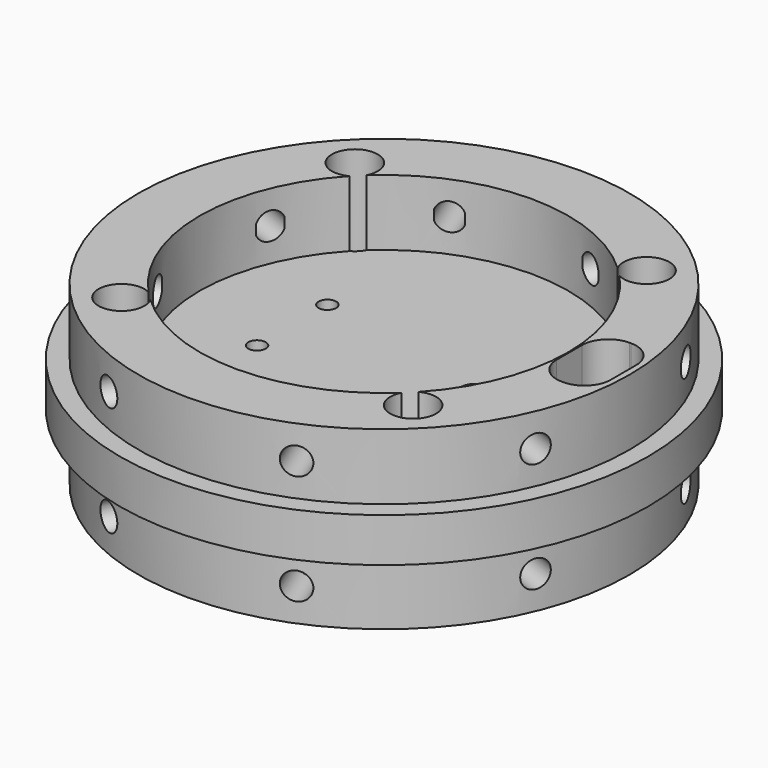
from build123d import *

# Parameters (mm, degrees)
SKETCH_R              = 27.9
PAD_DEPTH             = 7.5
SKETCH001_R           = 30
PAD001_DEPTH          = 5
SKETCH002_R           = 27.9
PAD002_DEPTH          = 7.5
SKETCH003_R           = 20.95
POCKET_DEPTH          = 7.5
SKETCH004_R           = 2.6
POCKET001_DEPTH       = 20.001
SKETCH005_W           = 6.15
SKETCH005_H           = 9.6
POCKET002_DEPTH       = 12.6
SKETCH006_R           = 1
SKETCH006_R_2         = 1.75
POCKET003_DEPTH       = 12.501
FILLET_R              = 3
SKETCH008_R           = 1.55
POCKET004_DEPTH       = 5
SKETCH009_R           = 1.55
POCKET005_DEPTH       = 5
POLARPATTERN_COUNT    = 4
SKETCH011_R           = 1.55
POCKET006_DEPTH       = 7
SKETCH012_R           = 1.55
POCKET007_DEPTH       = 7
POLARPATTERN001_COUNT = 4


with BuildPart() as part:
    # Sketch → Pad (new body)
    with BuildSketch(Plane.XY):
        Circle(SKETCH_R)
    extrude(amount=PAD_DEPTH)

    # Sketch001 (on Face3 of Pad) → Pad001 (join)
    with BuildSketch(Plane.XY.offset(7.5)):
        Circle(SKETCH001_R)
    extrude(amount=PAD001_DEPTH)

    # Sketch002 (on Face5 of Pad001) → Pad002 (join)
    with BuildSketch(Plane.XY.offset(12.5)):
        Circle(SKETCH002_R)
    extrude(amount=PAD002_DEPTH)

    # Sketch003 (on Face7 of Pad002) → Pocket (cut)
    with BuildSketch(Plane.XY.offset(20)):
        Circle(SKETCH003_R)
    extrude(amount=-POCKET_DEPTH, mode=Mode.SUBTRACT)

    # Sketch004 (on Face7 of Pocket) → Pocket001 (cut, through all)
    with BuildSketch(Plane.XY.offset(20)):
        with Locations((16.56603, 16.566024)):
            Circle(SKETCH004_R)
        with Locations((16.56603, -16.566024)):
            Circle(SKETCH004_R)
        with Locations((-16.56603, -16.566024)):
            Circle(SKETCH004_R)
        with Locations((-16.56603, 16.566024)):
            Circle(SKETCH004_R)
    extrude(amount=-POCKET001_DEPTH, mode=Mode.SUBTRACT)

    # Sketch005 (on Face9 of Pocket001) → Pocket002 (cut)
    with BuildSketch(Plane.XY.offset(20)):
        with Locations((24.125, 0)):
            Rectangle(SKETCH005_W, SKETCH005_H)
    extrude(amount=-POCKET002_DEPTH, mode=Mode.SUBTRACT)

    # Sketch006 → Pocket003 (cut, through all)
    with BuildSketch(Plane.XY.offset(12.5)):
        with Locations((24.375, 2.4)):
            Circle(SKETCH006_R)
        with Locations((24.375, -2.4)):
            Circle(SKETCH006_R)
        with Locations((10.425, 0)):
            Circle(SKETCH006_R_2)
        with Locations((-10.425, 5)):
            Circle(SKETCH006_R)
        with Locations((-10.425, -5)):
            Circle(SKETCH006_R)
    extrude(amount=-POCKET003_DEPTH, mode=Mode.SUBTRACT)

    # Fillet
    fillet_edges = [part.edges().sort_by_distance(p)[0] for p in [
        (21.05, 4.8, 13.7),
        (21.05, -4.8, 13.7),
        (27.2, -4.8, 13.7),
        (27.2, 4.8, 13.7),
    ]]
    fillet(fillet_edges, radius=FILLET_R)

    # Sketch008 (on DatumPlane) → Pocket004 (cut)
    with BuildSketch(Plane(origin=(10.676868, -25.776239, 0), x_dir=(-0.92388, -0.382683, 0), z_dir=(-0.382683, 0.92388, 0))):
        with Locations((0, 3.75)):
            Circle(SKETCH008_R)
    pocket004 = extrude(amount=POCKET004_DEPTH, mode=Mode.SUBTRACT)

    # Sketch009 (on DatumPlane) → Pocket005 (cut)
    with BuildSketch(Plane(origin=(25.776239, -10.676868, 0), x_dir=(-0.382683, -0.92388, 0), z_dir=(-0.92388, 0.382683, 0))):
        with Locations((0, 3.75)):
            Circle(SKETCH009_R)
    pocket005 = extrude(amount=POCKET005_DEPTH, mode=Mode.SUBTRACT)

    # PolarPattern: Pocket004, Pocket005 ×4 about axis
    polarpattern_axis = Axis((0, 0, 0), (0, 0, 1))
    for i in range(1, POLARPATTERN_COUNT):
        add(pocket004.rotate(polarpattern_axis, i * 360 / POLARPATTERN_COUNT), mode=Mode.SUBTRACT)
        add(pocket005.rotate(polarpattern_axis, i * 360 / POLARPATTERN_COUNT), mode=Mode.SUBTRACT)

    # Sketch011 (on DatumPlane) → Pocket006 (cut)
    with BuildSketch(Plane(origin=(10.676868, -25.776239, 20), x_dir=(-0.92388, -0.382683, 0), z_dir=(-0.382683, 0.92388, 0))):
        with Locations((0, -3.75)):
            Circle(SKETCH011_R)
    pocket006 = extrude(amount=POCKET006_DEPTH, mode=Mode.SUBTRACT)

    # Sketch012 (on DatumPlane) → Pocket007 (cut)
    with BuildSketch(Plane(origin=(25.776239, -10.676868, 20), x_dir=(-0.382683, -0.92388, 0), z_dir=(-0.92388, 0.382683, 0))):
        with Locations((0, -3.75)):
            Circle(SKETCH012_R)
    pocket007 = extrude(amount=POCKET007_DEPTH, mode=Mode.SUBTRACT)

    # PolarPattern001: Pocket007, Pocket006 ×4 about axis
    polarpattern001_axis = Axis((0, 0, 0), (0, 0, 1))
    for i in range(1, POLARPATTERN001_COUNT):
        add(pocket007.rotate(polarpattern001_axis, i * 360 / POLARPATTERN001_COUNT), mode=Mode.SUBTRACT)
        add(pocket006.rotate(polarpattern001_axis, i * 360 / POLARPATTERN001_COUNT), mode=Mode.SUBTRACT)


solid = part.part
